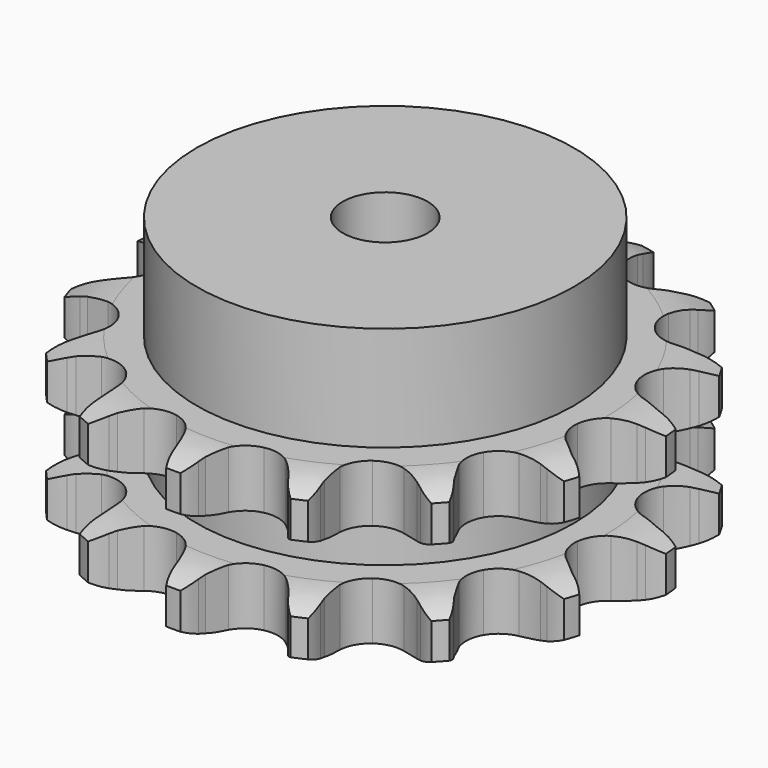
from build123d import *

# Parameters (mm, degrees)
PAD_DEPTH         = 30.3
SKETCH001_R       = 35.5
PAD001_DEPTH      = 50
SKETCH002_R       = 8
POCKET_DEPTH      = 0.001
POCKET_DEPTH_BACK = -50.001


with BuildPart() as part:
    # Sprocket → Pad (new body)
    with BuildSketch(Plane.XY):
        with BuildLine():
            ThreePointArc((-10.746351, 50.557607), (-8.790934, 48.761619), (-7.372206, 46.517418))
            Line((-7.372206, 46.517418), (-6.809475, 45.295827))
            ThreePointArc((-6.809475, 45.295827), (-5.8799, 43.569417), (-4.743136, 41.971804))
            ThreePointArc((-4.743136, 41.971804), (-2.627528, 40.303993), (0, 39.709445))
            ThreePointArc((0, 39.709445), (2.627528, 40.303993), (4.743136, 41.971804))
            ThreePointArc((4.743136, 41.971804), (5.8799, 43.569417), (6.809475, 45.295827))
            Line((6.809475, 45.295827), (7.372206, 46.517418))
            ThreePointArc((7.372206, 46.517418), (8.790934, 48.761619), (10.746351, 50.557607))
            ThreePointArc((10.746351, 50.557607), (11.802219, 48.121551), (12.185493, 45.494322))
            Line((12.185493, 45.494322), (12.202707, 44.14946))
            ThreePointArc((12.202707, 44.14946), (12.349723, 42.194214), (12.738401, 40.272358))
            ThreePointArc((12.738401, 40.272358), (13.992745, 37.888242), (16.151286, 36.276383))
            ThreePointArc((16.151286, 36.276383), (18.793477, 35.750818), (21.404541, 36.413944))
            Line((21.404541, 36.413944), (24.644238, 38.610134))
            ThreePointArc((24.644238, 38.610134), (25.140243, 39.064472), (25.655183, 39.49723))
            ThreePointArc((25.655183, 39.49723), (27.864055, 40.970361), (30.380912, 41.815738))
            ThreePointArc((30.380912, 41.815738), (30.354662, 39.160829), (29.63621, 36.604845))
            Line((29.63621, 36.604845), (29.104931, 35.36925))
            ThreePointArc((29.104931, 35.36925), (28.443966, 33.523248), (28.017352, 31.609455))
            ThreePointArc((28.017352, 31.609455), (28.193545, 28.921269), (29.509868, 26.570805))
            ThreePointArc((29.509868, 26.570805), (31.709863, 25.016002), (34.364906, 24.559782))
            Line((34.364906, 24.559782), (38.217788, 25.248398))
            ThreePointArc((38.217788, 25.248398), (38.855706, 25.461713), (39.502147, 25.647612))
            ThreePointArc((39.502147, 25.647612), (42.119228, 26.094955), (44.762337, 25.843547))
            ThreePointArc((44.762337, 25.843547), (43.658508, 23.428844), (41.962557, 21.386057))
            Line((41.962557, 21.386057), (40.974648, 20.473376))
            ThreePointArc((40.974648, 20.473376), (39.619989, 19.055807), (38.451848, 17.480991))
            ThreePointArc((38.451848, 17.480991), (37.519425, 14.953546), (37.765926, 12.270893))
            ThreePointArc((37.765926, 12.270893), (39.143326, 9.955692), (41.383267, 8.459011))
            Line((41.383267, 8.459011), (45.183135, 7.520984))
            ThreePointArc((45.183135, 7.520984), (45.852666, 7.456392), (46.51883, 7.363288))
            ThreePointArc((46.51883, 7.363288), (49.091604, 6.707494), (51.403947, 5.402773))
            ThreePointArc((51.403947, 5.402773), (49.413401, 3.645799), (47.033196, 2.469426))
            Line((47.033196, 2.469426), (45.759475, 2.037469))
            ThreePointArc((45.759475, 2.037469), (43.945356, 1.293445), (42.237671, 0.329904))
            ThreePointArc((42.237671, 0.329904), (40.357855, -1.599781), (39.491912, -4.150767))
            ThreePointArc((39.491912, -4.150767), (39.808553, -6.826048), (41.246086, -9.1044))
            Line((41.246086, -9.1044), (44.335908, -11.506875))
            ThreePointArc((44.335908, -11.506875), (44.921282, -11.838206), (45.491985, -12.194214))
            ThreePointArc((45.491985, -12.194214), (47.575595, -13.839754), (49.157348, -15.972191))
            ThreePointArc((49.157348, -15.972191), (46.624268, -16.767637), (43.971369, -16.874192))
            Line((43.971369, -16.874192), (42.632074, -16.750735))
            ThreePointArc((42.632074, -16.750735), (40.672172, -16.692566), (38.720216, -16.878226))
            ThreePointArc((38.720216, -16.878226), (36.218046, -17.876491), (34.389388, -19.854722))
            ThreePointArc((34.389388, -19.854722), (33.590518, -22.427502), (33.977081, -25.093578))
            Line((33.977081, -25.093578), (35.822599, -28.545092))
            ThreePointArc((35.822599, -28.545092), (36.222601, -29.085871), (36.599163, -29.643226))
            ThreePointArc((36.599163, -29.643226), (37.833334, -31.993982), (38.410997, -34.585417))
            ThreePointArc((38.410997, -34.585417), (35.773376, -34.281797), (33.306492, -33.300108))
            Line((33.306492, -33.300108), (32.1332, -32.642585))
            ThreePointArc((32.1332, -32.642585), (30.3664, -31.792281), (28.507685, -31.167958))
            ThreePointArc((28.507685, -31.167958), (25.815807, -31.062194), (23.340626, -32.125616))
            ThreePointArc((23.340626, -32.125616), (21.564378, -34.151038), (20.83313, -36.743848))
            Line((20.83313, -36.743848), (21.115238, -40.647603))
            ThreePointArc((21.115238, -40.647603), (21.260703, -41.304325), (21.378013, -41.966655))
            ThreePointArc((21.378013, -41.966655), (21.549346, -44.61616), (21.023035, -47.21851))
            ThreePointArc((21.023035, -47.21851), (18.736942, -45.868323), (16.88262, -43.968133))
            Line((16.88262, -43.968133), (16.078204, -42.890235))
            ThreePointArc((16.078204, -42.890235), (14.810001, -41.394821), (13.365915, -40.068466))
            ThreePointArc((13.365915, -40.068466), (10.949781, -38.876961), (8.256058, -38.841698))
            ThreePointArc((8.256058, -38.841698), (5.809562, -39.969548), (4.086942, -42.040773))
            Line((4.086942, -42.040773), (2.75686, -45.721774))
            ThreePointArc((2.75686, -45.721774), (2.622637, -46.380885), (2.46041, -47.033669))
            ThreePointArc((2.46041, -47.033669), (1.53928, -49.523799), (0, -51.687094))
            ThreePointArc((0, -51.687094), (-1.53928, -49.523799), (-2.46041, -47.033669))
            Line((-2.46041, -47.033669), (-2.75686, -45.721774))
            ThreePointArc((-2.75686, -45.721774), (-3.307182, -43.839821), (-4.086942, -42.040773))
            ThreePointArc((-4.086942, -42.040773), (-5.809562, -39.969548), (-8.256058, -38.841698))
            ThreePointArc((-8.256058, -38.841698), (-10.949781, -38.876961), (-13.365915, -40.068466))
            Line((-13.365915, -40.068466), (-16.078204, -42.890235))
            ThreePointArc((-16.078204, -42.890235), (-16.468908, -43.437769), (-16.88262, -43.968133))
            ThreePointArc((-16.88262, -43.968133), (-18.736942, -45.868323), (-21.023035, -47.21851))
            ThreePointArc((-21.023035, -47.21851), (-21.549346, -44.61616), (-21.378013, -41.966655))
            Line((-21.378013, -41.966655), (-21.115238, -40.647603))
            ThreePointArc((-21.115238, -40.647603), (-20.852522, -38.704517), (-20.83313, -36.743848))
            ThreePointArc((-20.83313, -36.743848), (-21.564378, -34.151038), (-23.340626, -32.125616))
            ThreePointArc((-23.340626, -32.125616), (-25.815807, -31.062194), (-28.507685, -31.167958))
            Line((-28.507685, -31.167958), (-32.1332, -32.642585))
            ThreePointArc((-32.1332, -32.642585), (-32.712828, -32.983869), (-33.306492, -33.300108))
            ThreePointArc((-33.306492, -33.300108), (-35.773376, -34.281797), (-38.410997, -34.585417))
            ThreePointArc((-38.410997, -34.585417), (-37.833334, -31.993982), (-36.599163, -29.643226))
            Line((-36.599163, -29.643226), (-35.822599, -28.545092))
            ThreePointArc((-35.822599, -28.545092), (-34.792273, -26.876851), (-33.977081, -25.093578))
            ThreePointArc((-33.977081, -25.093578), (-33.590518, -22.427502), (-34.389388, -19.854722))
            ThreePointArc((-34.389388, -19.854722), (-36.218046, -17.876491), (-38.720216, -16.878226))
            Line((-38.720216, -16.878226), (-42.632074, -16.750735))
            ThreePointArc((-42.632074, -16.750735), (-43.300404, -16.826757), (-43.971369, -16.874192))
            ThreePointArc((-43.971369, -16.874192), (-46.624268, -16.767637), (-49.157348, -15.972191))
            ThreePointArc((-49.157348, -15.972191), (-47.575595, -13.839754), (-45.491985, -12.194214))
            Line((-45.491985, -12.194214), (-44.335908, -11.506875))
            ThreePointArc((-44.335908, -11.506875), (-42.716123, -10.401933), (-41.246086, -9.1044))
            ThreePointArc((-41.246086, -9.1044), (-39.808553, -6.826048), (-39.491912, -4.150767))
            ThreePointArc((-39.491912, -4.150767), (-40.357855, -1.599781), (-42.237671, 0.329904))
            Line((-42.237671, 0.329904), (-45.759475, 2.037469))
            ThreePointArc((-45.759475, 2.037469), (-46.400946, 2.239853), (-47.033196, 2.469426))
            ThreePointArc((-47.033196, 2.469426), (-49.413401, 3.645799), (-51.403947, 5.402773))
            ThreePointArc((-51.403947, 5.402773), (-49.091604, 6.707494), (-46.51883, 7.363288))
            Line((-46.51883, 7.363288), (-45.183135, 7.520984))
            ThreePointArc((-45.183135, 7.520984), (-43.253967, 7.871574), (-41.383267, 8.459011))
            ThreePointArc((-41.383267, 8.459011), (-39.143326, 9.955692), (-37.765926, 12.270893))
            ThreePointArc((-37.765926, 12.270893), (-37.519425, 14.953546), (-38.451848, 17.480991))
            Line((-38.451848, 17.480991), (-40.974648, 20.473376))
            ThreePointArc((-40.974648, 20.473376), (-41.478343, 20.919173), (-41.962557, 21.386057))
            ThreePointArc((-41.962557, 21.386057), (-43.658508, 23.428844), (-44.762337, 25.843547))
            ThreePointArc((-44.762337, 25.843547), (-42.119228, 26.094955), (-39.502147, 25.647612))
            Line((-39.502147, 25.647612), (-38.217788, 25.248398))
            ThreePointArc((-38.217788, 25.248398), (-36.312808, 24.784014), (-34.364906, 24.559782))
            ThreePointArc((-34.364906, 24.559782), (-31.709863, 25.016002), (-29.509868, 26.570805))
            ThreePointArc((-29.509868, 26.570805), (-28.193545, 28.921269), (-28.017352, 31.609455))
            Line((-28.017352, 31.609455), (-29.104931, 35.36925))
            ThreePointArc((-29.104931, 35.36925), (-29.383758, 35.981377), (-29.63621, 36.604845))
            ThreePointArc((-29.63621, 36.604845), (-30.354662, 39.160829), (-30.380912, 41.815738))
            ThreePointArc((-30.380912, 41.815738), (-27.864055, 40.970361), (-25.655183, 39.49723))
            Line((-25.655183, 39.49723), (-24.644238, 38.610134))
            ThreePointArc((-24.644238, 38.610134), (-23.092834, 37.411073), (-21.404541, 36.413944))
            ThreePointArc((-21.404541, 36.413944), (-18.793477, 35.750818), (-16.151286, 36.276383))
            ThreePointArc((-16.151286, 36.276383), (-13.992745, 37.888242), (-12.738401, 40.272358))
            Line((-12.738401, 40.272358), (-12.202707, 44.14946))
            ThreePointArc((-12.202707, 44.14946), (-12.208454, 44.822075), (-12.185493, 45.494322))
            ThreePointArc((-12.185493, 45.494322), (-11.802219, 48.121551), (-10.746351, 50.557607))
        make_face()
    extrude(amount=PAD_DEPTH)

    # Sketch → Groove (revolve, cut)
    with BuildSketch(Plane.XZ):
        with BuildLine():
            ThreePointArc((41.414719, 0), (45.773618, 0.506758), (49.9, 2))
            Line((49.9, 2), (49.9, 8.8))
            ThreePointArc((49.9, 8.8), (45.773618, 10.293242), (41.414719, 10.8))
            Line((35.5, 10.8), (41.414719, 10.8))
            Line((35.5, 19.5), (35.5, 10.8))
            Line((41.414719, 19.5), (35.5, 19.5))
            ThreePointArc((41.414719, 19.5), (45.773618, 20.006758), (49.9, 21.5))
            Line((49.9, 21.5), (49.9, 28.3))
            ThreePointArc((49.9, 28.3), (45.773618, 29.793242), (41.414719, 30.3))
            Line((41.414719, 30.3), (59.9, 30.3))
            Line((59.9, 30.3), (59.9, 0))
            Line((41.414719, 0), (59.9, 0))
        make_face()
    revolve(axis=Axis((0, 0, 0), (0, 0, 1)), mode=Mode.SUBTRACT)

    # Sketch001 → Pad001 (join)
    with BuildSketch(Plane.XY):
        Circle(SKETCH001_R)
    extrude(amount=PAD001_DEPTH)

    # Sketch002 → Pocket (cut, two sides)
    with BuildSketch(Plane.XY) as pocket_sk:
        Circle(SKETCH002_R)
    extrude(amount=-POCKET_DEPTH, mode=Mode.SUBTRACT)
    extrude(pocket_sk.sketch, amount=-POCKET_DEPTH_BACK, mode=Mode.SUBTRACT)


solid = part.part
